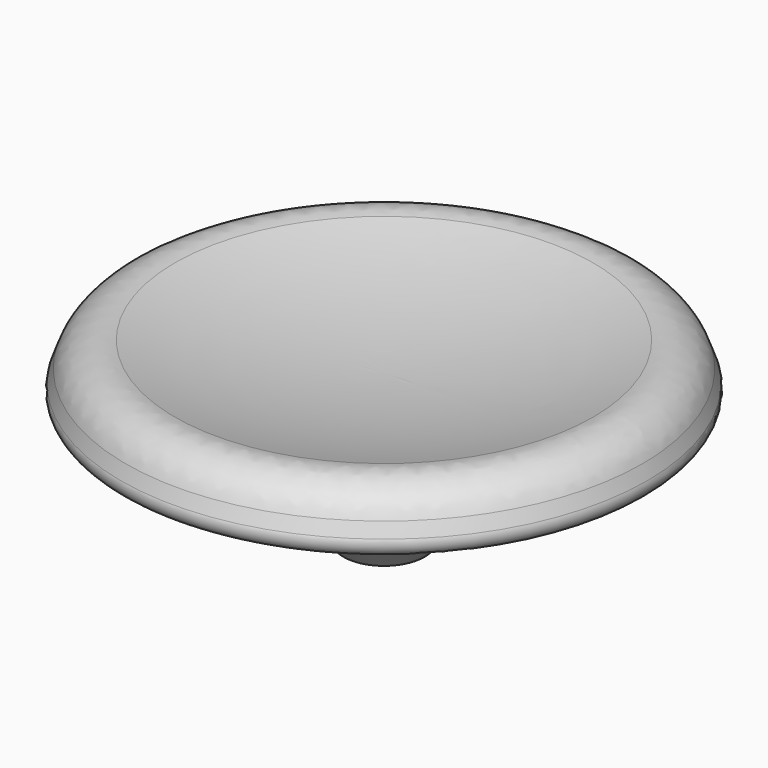
from build123d import *

# Parameters (mm, degrees)
F0_R     = 2.5
F1_DEPTH = 3.5
F2_SIZE  = 1
F3_R     = 3.25
F4_DEPTH = 1
F7_R     = 1.5
F8_R     = 0.5


with BuildPart() as f1:
    # F0 (on Top) → F1 (new body)
    with BuildSketch(Plane.XY):
        Circle(F0_R)
    extrude(amount=-F1_DEPTH)

    # F2
    f2_edges = [f1.edges().sort_by_distance(p)[0] for p in [
        (-2.5, 0, -3.5),
    ]]
    chamfer(f2_edges, length=F2_SIZE)

    # F3 (on Top) → F4 (join)
    with BuildSketch(Plane.XY):
        Circle(F3_R)
    extrude(amount=F4_DEPTH)

    # F5 (on Front) → F6 (revolve)
    with BuildSketch(Plane.XZ):
        with BuildLine():
            Line((0, 2), (0, 1))
            Line((0, 1), (10, 1))
            Line((10, 1), (9.084704, 3.514756))
            ThreePointArc((9.084704, 3.514756), (4.60506, 2.381285), (0, 2))
        make_face()
    revolve(axis=Axis((0, 0, 1.5), (0, 0, -1)))

    # F7
    f7_edges = [f1.edges().sort_by_distance(p)[0] for p in [
        (-9.084704, 0, 3.514756),
    ]]
    fillet(f7_edges, radius=F7_R)

    # F8
    f8_edges = [f1.edges().sort_by_distance(p)[0] for p in [
        (-10, 0, 1),
    ]]
    fillet(f8_edges, radius=F8_R)


solid = f1.part
